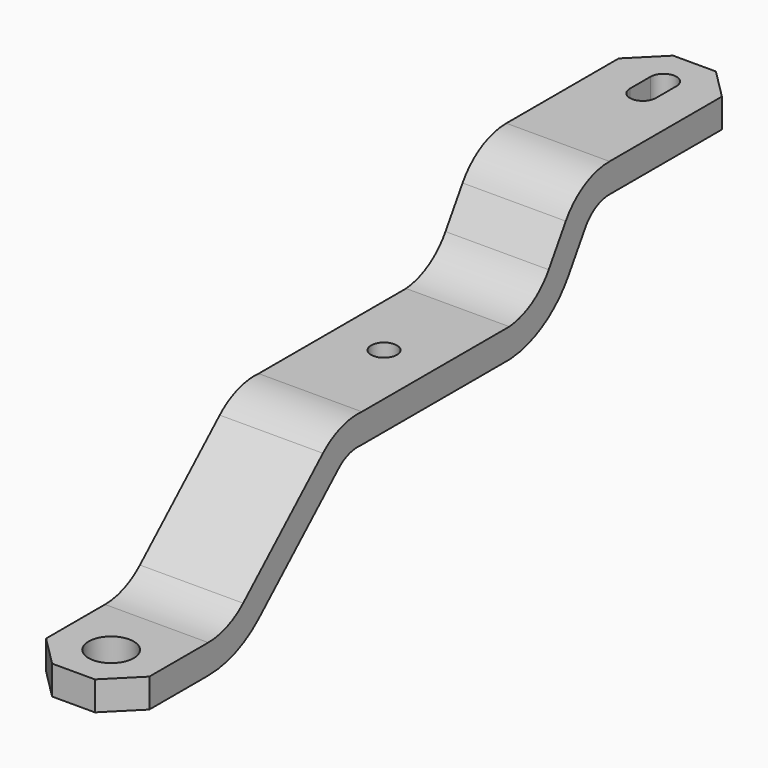
from build123d import *

# Parameters (mm, degrees)
F2_W     = 8
F2_H     = 2.25
F4_R     = 1
F4_R_2   = 1.75
F5_DEPTH = 19.275


with BuildPart() as f3:
    # F3: sweep along a path in F0
    with BuildLine(Plane.YZ) as f3_path:
        Line((-30.079, -9.7), (-22.0243003465, -9.7))
        ThreePointArc((-22.0243003465, -9.7), (-20.2113761884, -9.3597538559), (-18.6451882121, -8.3853223989))
        Line((-18.6451882121, -8.3853223989), (-10.9167165036, -1.2990027493))
        ThreePointArc((-10.9167165036, -1.2990027493), (-9.164620559, -0.2564484241), (-7.142, 0))
        Line((-7.142, 0), (7.142, 0))
        ThreePointArc((7.142, 0), (9.3249367628, 0.7155093073), (10.9575358104, 2.3316116645))
        Line((10.9575358104, 2.3316116645), (12.6101936284, 4.9753588836))
        ThreePointArc((12.6101936284, 4.9753588836), (14.4263026704, 6.6983165), (16.8499575119, 7.325))
        Line((16.8499575119, 7.325), (30.079, 7.325))
    # F2 (on plane+point) → F3 (sweep)
    with BuildSketch(Plane.XZ.offset(-30.079)):
        with Locations((0, 6.2)):
            Rectangle(F2_W, F2_H)
    sweep(path=f3_path.line, transition=Transition.RIGHT)

    # F4 (on face) → F5 (cut, through all)
    with BuildSketch(Plane.XY.offset(7.325)):
        Circle(F4_R)
        with BuildLine():
            ThreePointArc((1, 27.079), (0, 28.079), (-1, 27.079))
            Line((-1, 27.079), (-1, 25.079))
            ThreePointArc((-1, 25.079), (0, 24.079), (1, 25.079))
            Line((1, 25.079), (1, 27.079))
        make_face()
        with Locations((0, -26.4325533906)):
            Circle(F4_R_2)
        Polygon((-4, -30.079), (-1.6568542495, -30.079), (-4, -27.7358542495), align=None)
        Polygon((4, -30.079), (4, -27.7358542495), (1.6568542495, -30.079), align=None)
        Polygon((4, 30.079), (1.6568542495, 30.079), (4, 27.7358542495), align=None)
        Polygon((-4, 27.7358542495), (-1.6568542495, 30.079), (-4, 30.079), align=None)
    extrude(amount=-F5_DEPTH, mode=Mode.SUBTRACT)


solid = f3.part
